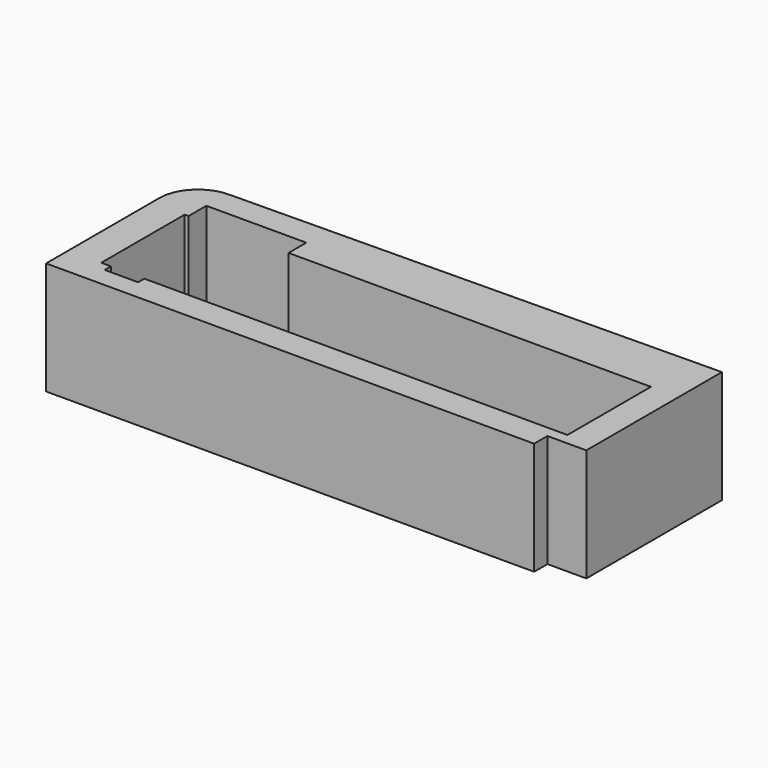
from build123d import *

# Parameters (mm, degrees)
F1_DEPTH = 1290.32
F2_R     = 443.992


with BuildPart() as f1:
    # F0 (on Top) → F1 (new body)
    with BuildSketch(Plane.XY):
        Polygon((3103.212074, -662.61454), (3103.212074, 1203.01546), (-2925.477926, 1203.01546), (-2925.477926, -853.11454), (2658.712074, -853.11454), (2658.712074, -662.61454), align=None)
        Polygon((-2436.781926, -535.61454), (-2548.287926, -535.61454), (-2548.287926, 658.18546), (-2503.837926, 658.18546), (-2503.837926, 912.18546), (-1360.837926, 912.18546), (-1360.837926, 658.18546), (2785.712074, 658.18546), (2785.712074, -27.61454), (2785.712074, -535.61454), (-1849.787926, -535.61454), (-2055.781926, -535.61454), (-2055.781926, -624.51454), (-2436.781926, -624.51454), align=None, mode=Mode.SUBTRACT)
        Polygon((-2925.477926, 1203.01546), (3103.212074, 1203.01546), (3103.212074, 1276.673468), align=None)
    extrude(amount=F1_DEPTH)

    # F2
    f2_edges = [f1.edges().sort_by_distance(p)[0] for p in [
        (-2925.477926, 1203.01546, 645.16),
    ]]
    fillet(f2_edges, radius=F2_R)


solid = f1.part
